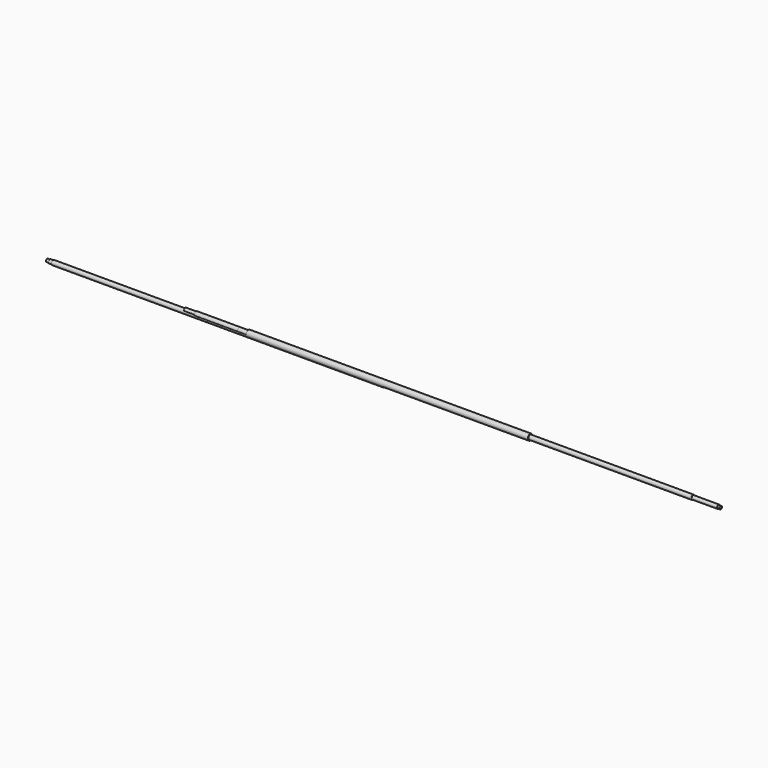
from build123d import *


with BuildPart() as f1:
    # F0 (on Front) → F1 (revolve)
    with BuildSketch(Plane.XZ):
        Polygon((-55.748958, 2.5), (-55.748958, 0), (389.251042, 0), (389.251042, 2), (386.251042, 2), (386.251042, 2.5), (351.751042, 2.5), (351.751042, 3), (-40.748958, 3), (-40.748958, 2.5), align=None)
    revolve(axis=Axis((166.430052, 0, 0), (1, 0, 0)))


with BuildPart() as f3:
    # F2 (on Front) → F3 (revolve)
    with BuildSketch(Plane.XZ):
        Polygon((153.83767, 2), (153.83767, 0), (670.33767, 0), (670.33767, 2), (667.33767, 2), (667.33767, 2.5), (632.83767, 2.5), (632.83767, 3), (161.83767, 3), (161.83767, 2.5), (157.33767, 2.5), (157.33767, 2), align=None)
    revolve(axis=Axis((412.08767, 0, 0), (1, 0, 0)))


with BuildPart() as f5:
    # F4 (on Front) → F5 (revolve)
    with BuildSketch(Plane.XZ):
        Polygon((0, 2.5), (0, 0), (425, 0), (425, 2), (422, 2), (422, 2.5), (387.5, 2.5), (387.5, 3), (17.7, 3), (17.7, 2.5), align=None)
    revolve(axis=Axis((-79.588096, 0, 0), (-1, 0, 0)))


with BuildPart() as f7:
    # F6 (on Front) → F7 (revolve)
    with BuildSketch(Plane.XZ):
        Polygon((-242.83403, 0.153846), (-242.83403, -1.846154), (251.66597, -1.846154), (251.66597, 0.153846), (248.66597, 0.153846), (248.66597, 0.653846), (214.16597, 0.653846), (214.16597, 1.153846), (-234.83403, 1.153846), (-234.83403, 0.653846), (-239.33403, 0.653846), (-239.33403, 0.153846), align=None)
    revolve(axis=Axis((4.41597, 0, -1.846154), (1, 0, 0)))


with BuildPart() as f9:
    # F8 (on Front) → F9 (revolve)
    with BuildSketch(Plane.XZ):
        Polygon((0, 2.15), (0, 0), (427, 0), (427, 2.15), (412, 2.15), (412, 4), (30, 4), (30, 2.15), align=None)
    revolve(axis=Axis((213.5, 0, 0), (-1, 0, 0)))


solid = Compound([f1.part, f3.part, f5.part, f7.part, f9.part])
